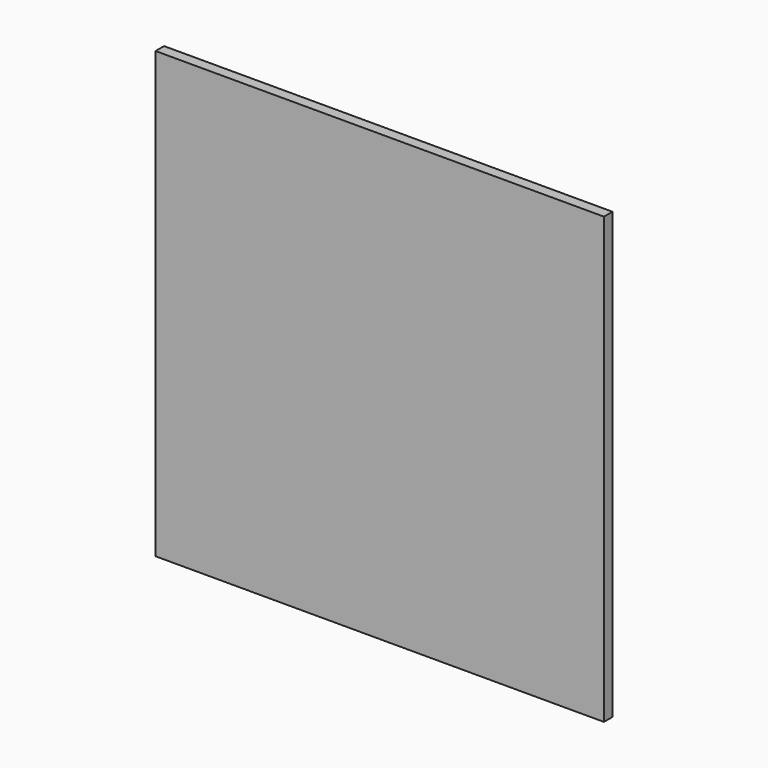
from build123d import *

# Parameters (mm, degrees)
SKETCH_W  = 252
SKETCH_H  = 250
PAD_DEPTH = 6


with BuildPart() as part:
    # Sketch → Pad (new body)
    with BuildSketch(Plane.XZ):
        with Locations((126, 125)):
            Rectangle(SKETCH_W, SKETCH_H)
    extrude(amount=PAD_DEPTH)


solid = part.part
